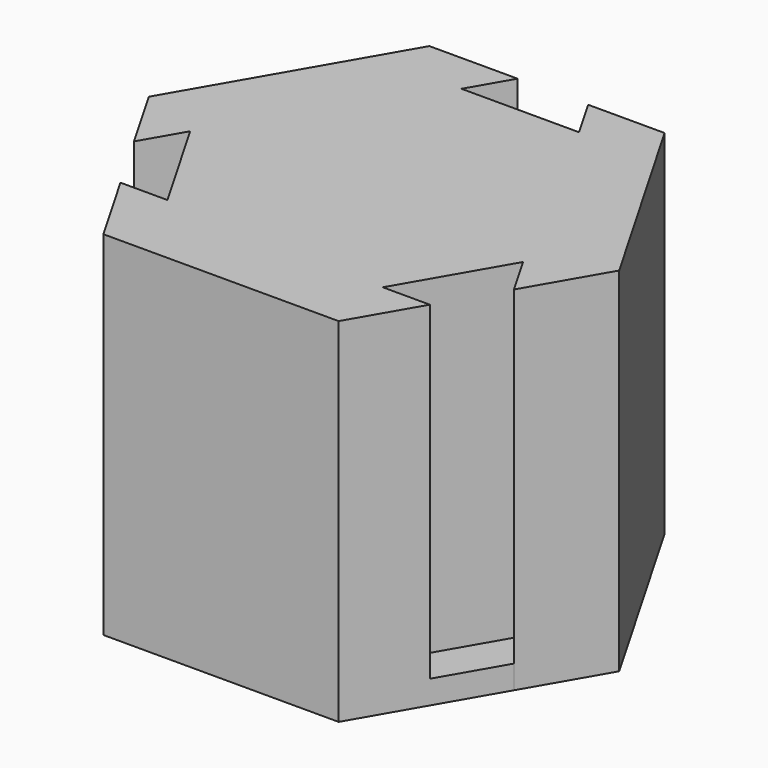
from build123d import *

# Parameters (mm, degrees)
F0_R     = 1.875
F1_DEPTH = 30
F2_DEPTH = 2
F3_START = 28
F3_DEPTH = 2


with BuildPart() as f1:
    # F0 (on Top) → F1 (new body)
    with BuildSketch(Plane.XY):
        Polygon((-10, -17.3205080757), (10, -17.3205080757), (13.25, -11.6913429511), (9.25, -11.6913429511), (14.25, -3.0310889132), (16.25, -6.4951905284), (20, 0), (10, 17.3205080757), (3.5, 17.3205080757), (5.5, 13.8564064606), (-4.5, 13.8564064606), (-2.5, 17.3205080757), (-10, 17.3205080757), (-20, 0), (-16.75, -5.6291651246), (-14.75, -2.1650635095), (-9.75, -10.8253175473), (-13.75, -10.8253175473), align=None)
        Circle(F0_R, mode=Mode.SUBTRACT)
    extrude(amount=F1_DEPTH)

    # F0 (on Top) → F2 (join)
    with BuildSketch(Plane.XY):
        Polygon((-16.75, -5.6291651246), (-13.75, -10.8253175473), (-9.75, -10.8253175473), (-14.75, -2.1650635095), align=None)
        Polygon((9.25, -11.6913429511), (13.25, -11.6913429511), (16.25, -6.4951905284), (14.25, -3.0310889132), align=None)
        Polygon((5.5, 13.8564064606), (3.5, 17.3205080757), (-2.5, 17.3205080757), (-4.5, 13.8564064606), align=None)
    extrude(amount=F2_DEPTH)

    # F0 (on Top) → F3 (join)
    with BuildSketch(Plane.XY.offset(F3_START)):
        Circle(F0_R)
    extrude(amount=F3_DEPTH)


solid = f1.part
